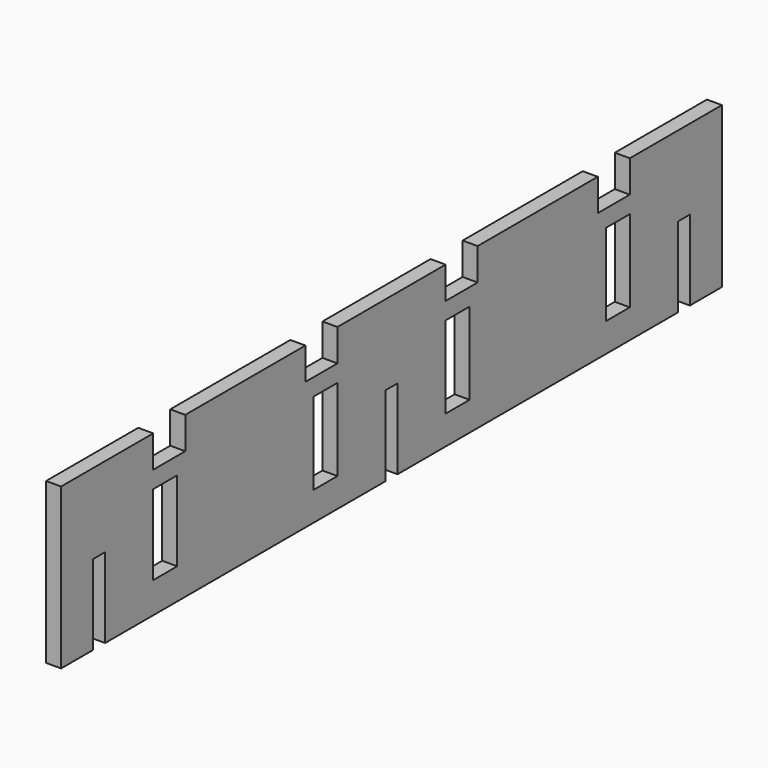
from build123d import *

# Parameters (mm, degrees)
F0_W     = 30
F0_H     = 80
F0_H_2   = 81.990397
F1_DEPTH = 15


with BuildPart() as f1:
    # F0 (on Right) → F1 (new body)
    with BuildSketch(Plane.YZ):
        Polygon((-297.5, 80), (-412.5, 80), (-412.5, -80), (-372.5, -80), (-372.5, 0), (-357.5, 0), (-357.5, -80), (-332.5, -80), (-7.5, -80), (-7.5, 0), (7.5, 0), (7.5, -80), (332.5, -80), (357.5, -80), (357.5, 0), (372.5, 0), (372.5, -80), (412.5, -80), (412.5, 80), (297.5, 80), (297.5, 48), (257.5, 48), (257.5, 80), (107.5, 80), (107.5, 48), (67.5, 48), (67.5, 80), (-67.5, 80), (-67.5, 48), (-107.5, 48), (-107.5, 80), (-257.5, 80), (-257.5, 48), (-297.5, 48), align=None)
        with Locations((-282.5, -9.096409)):
            Rectangle(F0_W, F0_H, mode=Mode.SUBTRACT)
        with Locations((-82.5, -10.091607)):
            Rectangle(F0_W, F0_H_2, mode=Mode.SUBTRACT)
        with Locations((82.5, -10.091607)):
            Rectangle(F0_W, F0_H_2, mode=Mode.SUBTRACT)
        with Locations((282.5, -10.091607)):
            Rectangle(F0_W, F0_H_2, mode=Mode.SUBTRACT)
    extrude(amount=F1_DEPTH)


solid = f1.part
